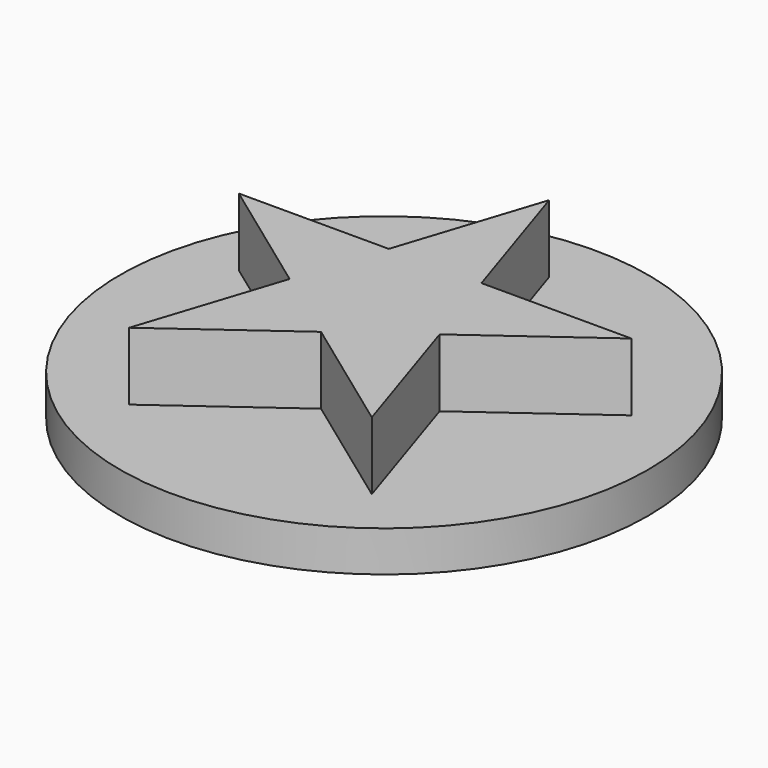
from build123d import *

# Parameters (mm, degrees)
F0_R     = 19.5
F1_DEPTH = 3
F3_DEPTH = 5


with BuildPart() as f1:
    # F0 (on Top) → F1 (new body)
    with BuildSketch(Plane.XY):
        with Locations((6.5e-05, -6.5e-05)):
            Circle(F0_R)
        Polygon((6.5e-05, -5.823596), (-8.961428, -12.334501), (-5.538442, -1.799635), (-14.499935, 4.711271), (-3.42292, 4.711271), (6.5e-05, 15.246138), (3.423051, 4.711271), (14.500065, 4.711271), (5.538572, -1.799635), (8.961558, -12.334501), align=None, mode=Mode.SUBTRACT)
    extrude(amount=F1_DEPTH)


with BuildPart() as f3:
    # F2 (on face) → F3 (new body)
    with BuildSketch(Plane.XY.offset(3)):
        Polygon((6.5e-05, 15.246138), (-3.42292, 4.711271), (-14.499935, 4.711271), (-5.538442, -1.799635), (-8.961428, -12.334501), (6.5e-05, -5.823596), (8.961558, -12.334501), (5.538572, -1.799635), (14.500065, 4.711271), (3.423051, 4.711271), align=None)
    extrude(amount=F3_DEPTH)


solid = Compound([f1.part, f3.part])
